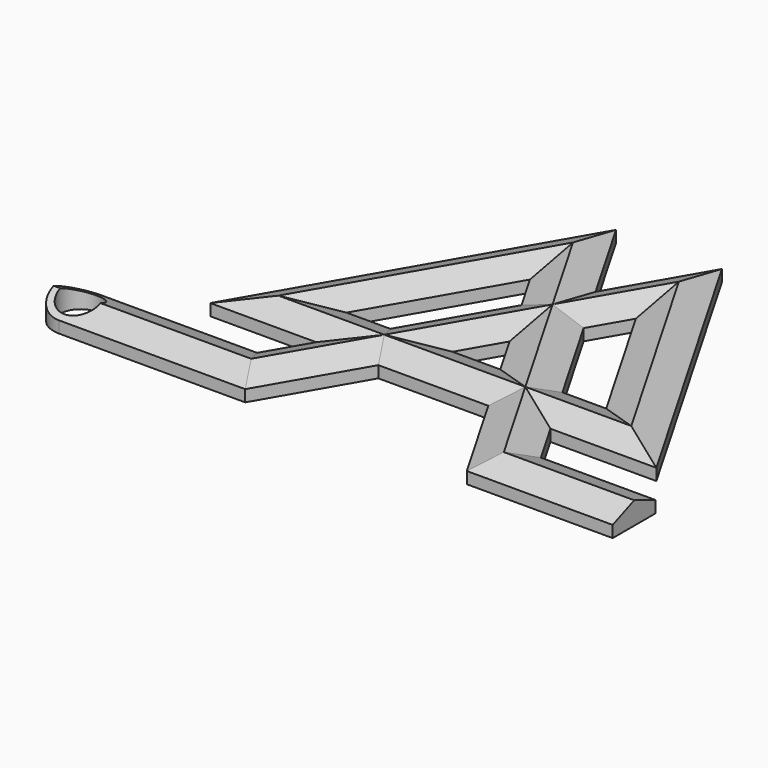
from build123d import *

# Parameters (mm, degrees)
F5_DEPTH = 15
F6_R     = 4.5
F7_DEPTH = 25


with BuildPart() as f3:
    # F3: sweep along a path in F0
    with BuildLine(Plane.XY) as f3_path:
        Line((-57.2620779276, -48.8092154264), (-28.1800136654, -48.8092154264))
        Line((-28.1800136654, -48.8092154264), (11.8141577124, 20.4627214066))
        Line((11.8141577124, 20.4627214066), (39.3592752516, -27.2468216717))
        Line((39.3592752516, -27.2468216717), (0, -27.2468216717))
    # F2 (on line) → F3 (sweep)
    with BuildSketch(Plane(origin=(-57.2620779276, 0, 0), x_dir=(0, -1, 0), z_dir=(-1, 0, 0))):
        Polygon((54.8092154264, -2.4), (48.8092154264, 0), (42.8092154264, -2.4), (42.8092154264, -5), (54.8092154264, -5), align=None)
    sweep(path=f3_path.line, transition=Transition.RIGHT)

    # F4: F3 across plane


with BuildPart() as f3_1:
    add(f3.part)
    add(f3.part.mirror(Plane.YZ))

    # F5 (add): a face of the model
    f5_faces = [f3_1.faces().sort_by_distance(p)[0] for p in [
        (-57.2620779276, -48.8092154264, -3.0368421053),
    ]]
    extrude(f5_faces, amount=F5_DEPTH)

    # F6 (on face) → F7 (cut)
    with BuildSketch(Plane(origin=(0, 0, -5), x_dir=(1, 0, 0), z_dir=(0, 0, -1))):
        with BuildLine():
            ThreePointArc((-66.2620779276, 42.8092154264), (-70.5047186147, 44.5665747393), (-72.2620779276, 48.8092154264))
            Line((-72.2620779276, 48.8092154264), (-72.2620779276, 42.8092154264))
            Line((-72.2620779276, 42.8092154264), (-66.2620779276, 42.8092154264))
        make_face()
        with BuildLine():
            ThreePointArc((-72.2620779276, 48.8092154264), (-70.5047186147, 53.0518561136), (-66.2620779276, 54.8092154264))
            Line((-66.2620779276, 54.8092154264), (-72.2620779276, 54.8092154264))
            Line((-72.2620779276, 54.8092154264), (-72.2620779276, 48.8092154264))
        make_face()
        with Locations((-66.2620779276, 48.8092154264)):
            Circle(F6_R)
    extrude(amount=-F7_DEPTH, mode=Mode.SUBTRACT)


solid = f3_1.part
